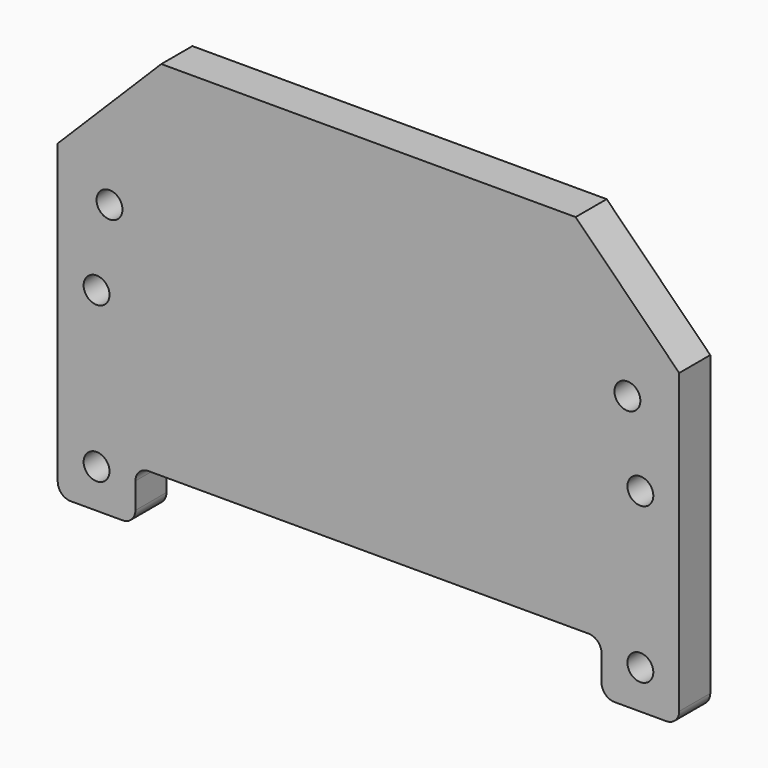
from build123d import *

# Parameters (mm, degrees)
F0_W     = 304.8
F0_H     = 203.2
F1_DEPTH = 19.05
F2_SIZE  = 50.8
F3_W     = 228.6
F3_H     = 25.4
F4_DEPTH = 19.05
F5_R     = 6.35
F7_D     = 12.7
F7_DEPTH = 12.7
F7_TIP   = 3.8154649308
F8_D     = 12.7
F8_DEPTH = 12.7
F8_TIP   = 3.8154649308
F9_D     = 9.525


with BuildPart() as f1:
    # F0 (on Front) → F1 (new body)
    with BuildSketch(Plane.XZ):
        with Locations((139.2554994464, 77.2159987301)):
            Rectangle(F0_W, F0_H)
    extrude(amount=F1_DEPTH)

    # F2
    f2_edges = [f1.edges().sort_by_distance(p)[0] for p in [
        (-13.144501, -9.525, 178.815999),
        (291.655499, -9.525, 178.815999),
    ]]
    chamfer(f2_edges, length=F2_SIZE)

    # F3 (on face) → F4 (cut)
    with BuildSketch(Plane.XZ.offset(19.05)):
        with Locations((139.2554994464, -11.6840012699)):
            Rectangle(F3_W, F3_H)
    extrude(amount=-F4_DEPTH, mode=Mode.SUBTRACT)

    # F5
    f5_edges = [f1.edges().sort_by_distance(p)[0] for p in [
        (24.955499, -9.525, 1.015999),
        (253.555499, -9.525, 1.015999),
        (253.555499, -9.525, -24.384001),
        (291.655499, -9.525, -24.384001),
        (24.955499, -9.525, -24.384001),
        (-13.144501, -9.525, -24.384001),
    ]]
    fillet(f5_edges, radius=F5_R)

    # F7
    with Locations(Plane.XZ.offset(19.05)):
        with Locations((12.2554994464, 109.8041987301), (266.2554994464, 109.8041987301)):
            Hole(F7_D / 2, depth=F7_DEPTH)
            with Locations((0, 0, -(F7_DEPTH + F7_TIP / 2))):  # 118° drill point
                Cone(0, F7_D / 2, F7_TIP, mode=Mode.SUBTRACT)

    # F8
    with Locations(Plane.XZ.offset(19.05)):
        with Locations((272.6054994464, 70.8659987301), (5.9054994464, 70.8659987301), (5.9054994464, -5.3340012699), (272.6054994464, -5.3340012699)):
            Hole(F8_D / 2, depth=F8_DEPTH)
            with Locations((0, 0, -(F8_DEPTH + F8_TIP / 2))):  # 118° drill point
                Cone(0, F8_D / 2, F8_TIP, mode=Mode.SUBTRACT)

    # F9 (through all)
    with Locations(Plane.XZ.offset(19.05)):
        with Locations((5.9054994464, 70.8659987301), (272.6054994464, 70.8659987301), (5.9054994464, -5.3340012699), (272.6054994464, -5.3340012699)):
            Hole(F9_D / 2)


solid = f1.part
